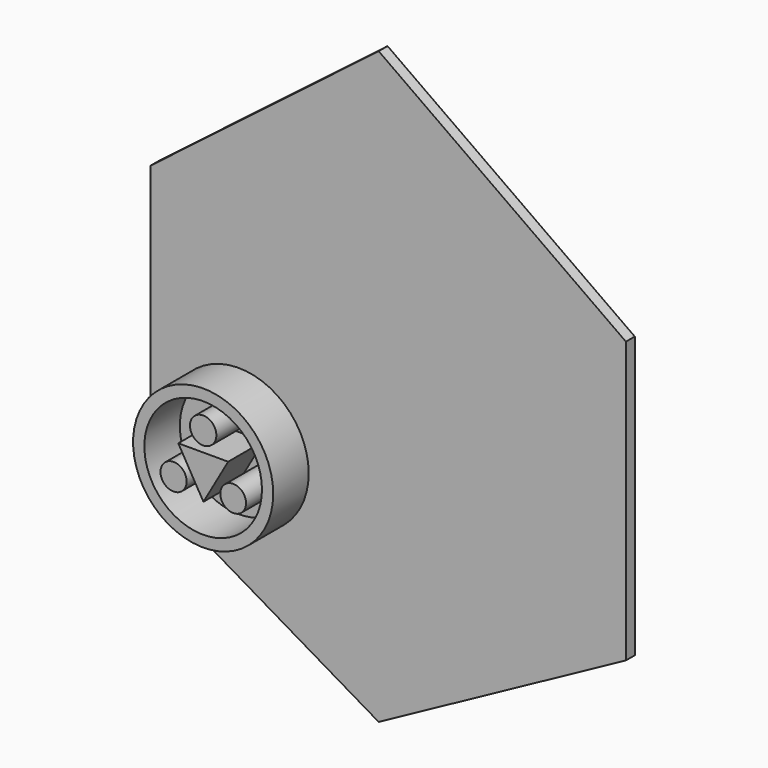
from build123d import *

# Parameters (mm, degrees)
F1_DEPTH  = 12.7
F2_DEPTH  = 2.54
F3_DEPTH  = 7.62
F4_DEPTH  = 2.54
F5_DEPTH  = 2.54
F6_DEPTH  = 2.54
F7_DEPTH  = 2.54
F8_DEPTH  = 2.54
F9_DEPTH  = 2.54
F10_R     = 16.050678096
F10_R_2   = 13.472274859
F10_R_3   = 3.0244847624
F10_R_4   = 2.9484981223
F10_R_5   = 2.9899979454
F11_DEPTH = 10.16


with BuildPart() as f1:
    # F0 (on Front) → F1 (new body)
    with BuildSketch(Plane.XZ):
        Polygon((59.2296272516, 26.558874175), (0, 68.5641244054), (-54.7846257687, 26.558874175), (-54.7846257687, -40.5606217682), (0, -72.7868750691), (59.2296272516, -40.5606217682), align=None)
    extrude(amount=F1_DEPTH)

    # F2 (cut): a face of the model
    f2_faces = [f1.faces().sort_by_distance(p)[0] for p in [
        (1.9587071028, -12.7, -4.2659517496),
    ]]
    extrude(f2_faces, amount=-F2_DEPTH, mode=Mode.SUBTRACT)

    # F3 (cut): a face of the model
    f3_faces = [f1.faces().sort_by_distance(p)[0] for p in [
        (1.9587071028, -10.16, -4.2659517496),
    ]]
    extrude(f3_faces, amount=-F3_DEPTH, mode=Mode.SUBTRACT)

    # F4 (cut): a face of the model
    f4_faces = [f1.faces().sort_by_distance(p)[0] for p in [
        (29.6148136258, -1.27, 47.5614992902),
    ]]
    extrude(f4_faces, amount=-F4_DEPTH, mode=Mode.SUBTRACT)

    # F5 (cut): a face of the model
    f5_faces = [f1.faces().sort_by_distance(p)[0] for p in [
        (-27.3923128843, -1.27, 47.5614992902),
    ]]
    extrude(f5_faces, amount=-F5_DEPTH, mode=Mode.SUBTRACT)

    # F6 (cut): a face of the model
    f6_faces = [f1.faces().sort_by_distance(p)[0] for p in [
        (59.2296272516, -1.27, -7.0008737966),
    ]]
    extrude(f6_faces, amount=-F6_DEPTH, mode=Mode.SUBTRACT)

    # F7 (cut): a face of the model
    f7_faces = [f1.faces().sort_by_distance(p)[0] for p in [
        (-54.7846257687, -1.27, -7.0008737966),
    ]]
    extrude(f7_faces, amount=-F7_DEPTH, mode=Mode.SUBTRACT)

    # F8 (cut): a face of the model
    f8_faces = [f1.faces().sort_by_distance(p)[0] for p in [
        (-27.3923128843, -1.27, -56.6737484187),
    ]]
    extrude(f8_faces, amount=-F8_DEPTH, mode=Mode.SUBTRACT)

    # F9 (cut): a face of the model
    f9_faces = [f1.faces().sort_by_distance(p)[0] for p in [
        (29.6148136258, -1.27, -56.6737484187),
    ]]
    extrude(f9_faces, amount=-F9_DEPTH, mode=Mode.SUBTRACT)

    # F10 (on face) → F11 (join)
    with BuildSketch(Plane.XZ.offset(2.54)):
        with Locations((-32.0333689451, -24.9490719289)):
            Circle(F10_R)
        with Locations((-32.0333689451, -24.9490719289)):
            Circle(F10_R_2, mode=Mode.SUBTRACT)
        with Locations((-32.0333689451, -17.3833221197)):
            Circle(F10_R_3)
        with Locations((-25.150520727, -28.8595743477)):
            Circle(F10_R_4)
        with Locations((-38.8115644455, -28.9213098586)):
            Circle(F10_R_5)
        Polygon((-26.3045579195, -21.8257736415), (-37.7313010395, -21.8257736415), (-31.9700799882, -31.7595750093), align=None)
    extrude(amount=F11_DEPTH)


solid = f1.part
